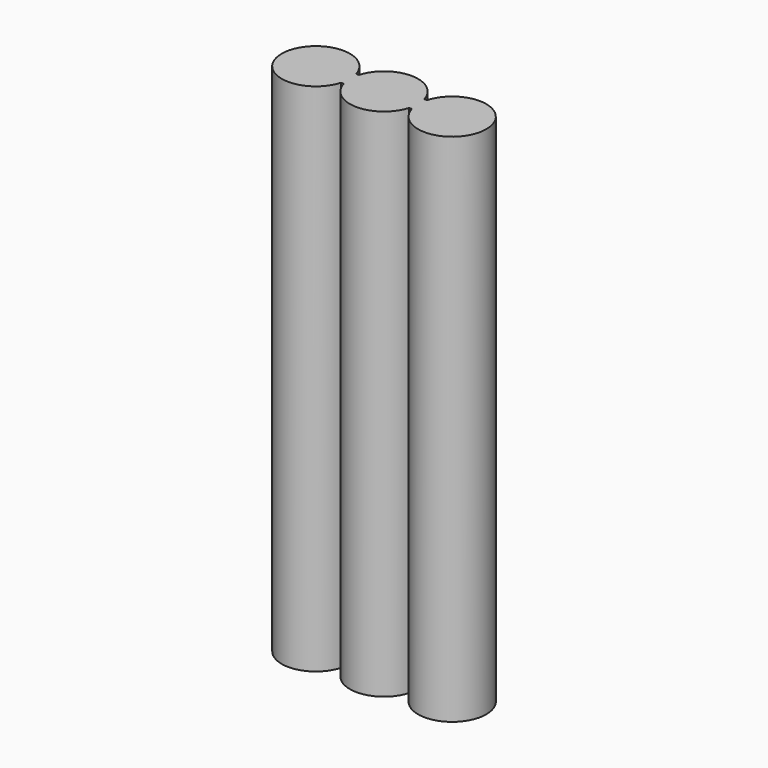
from build123d import *

# Parameters (mm, degrees)
F0_R          = 9
F1_DEPTH      = 68
F2_W          = 40
F2_H          = 5
F3_DEPTH      = 68
F3_DEPTH_BACK = 68


with BuildPart() as f1:
    # F0 (on Top) → F1 (new body, symmetric)
    with BuildSketch(Plane.XY):
        with Locations((-18, 0)):
            Circle(F0_R)
    extrude(amount=F1_DEPTH, both=True)



with BuildPart() as f1b:
    # F0 (on Top) → F1, piece 2 (new body, symmetric)
    with BuildSketch(Plane.XY):
        with BuildLine():
            ThreePointArc((27, 0), (18, 9), (9, 0))
            ThreePointArc((9, 0), (18, -9), (27, 0))
        make_face()
    extrude(amount=F1_DEPTH, both=True)


with BuildPart() as f1c:
    # F0 (on Top) → F1, piece 3 (new body, symmetric)
    with BuildSketch(Plane.XY):
        with BuildLine():
            ThreePointArc((9, 0), (0, 9), (-9, 0))
            ThreePointArc((-9, 0), (0, -9), (9, 0))
        make_face()
    extrude(amount=F1_DEPTH, both=True)


with BuildPart() as f1_1:
    add(f1.part)

    add(f1b.part)  # F3 merges F1b

    add(f1c.part)  # F3 merges F1c
    # F2 (on Top) → F3 (join, two sides)
    with BuildSketch(Plane.XY) as f3_sk:
        Rectangle(F2_W, F2_H)
    extrude(amount=F3_DEPTH)
    extrude(f3_sk.sketch, amount=-F3_DEPTH_BACK)


solid = f1_1.part
